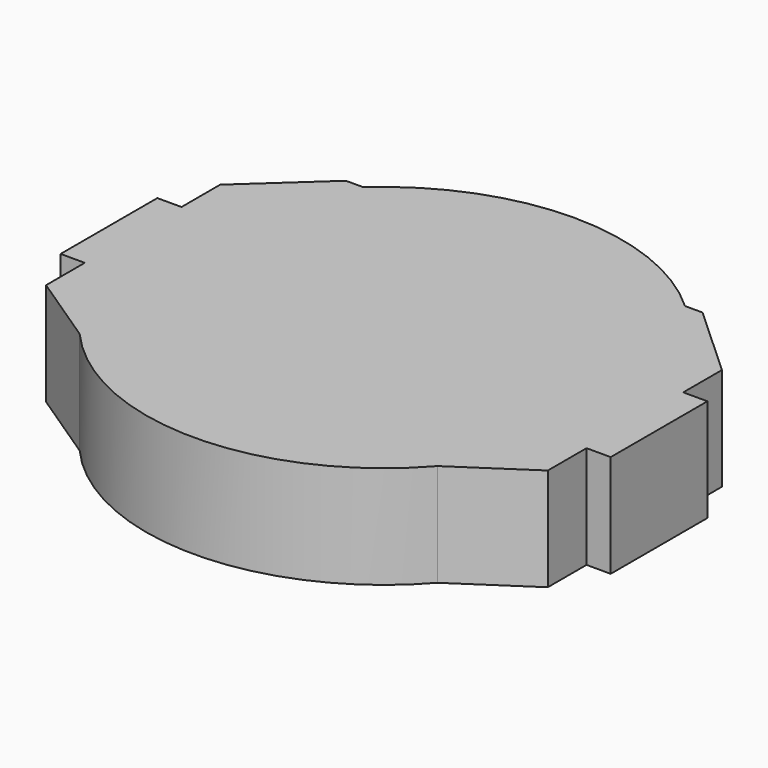
from build123d import *

# Parameters (mm, degrees)
F1_DEPTH = 4.318


with BuildPart() as f1:
    # F0 (on Top) → F1 (new body)
    with BuildSketch(Plane.XY):
        Polygon((-10.541, 2.54), (-11.557, 2.54), (-11.557, -2.54), (-10.541, -2.54), (-10.541, -4.572), (-7.515558, -6.588961), (-5.588, -7.874), (0, -7.874), (5.588, -7.874), (7.515558, -6.588961), (10.541, -4.572), (10.541, -2.54), (11.557, -2.54), (11.557, 2.54), (10.541, 2.54), (10.541, 4.572), (7.493, 7.366), (6.755743, 7.366), (0, 7.366), (-6.755743, 7.366), (-7.493, 7.366), (-10.541, 4.572), align=None)
        with BuildLine():
            ThreePointArc((6.755743, 7.366), (0, 9.9949), (-6.755743, 7.366))
            Line((-6.755743, 7.366), (0, 7.366))
            Line((0, 7.366), (6.755743, 7.366))
        make_face()
        with BuildLine():
            Line((-5.588, -7.874), (-7.515558, -6.588961))
            ThreePointArc((-7.515558, -6.588961), (0, -9.9949), (7.515558, -6.588961))
            Line((7.515558, -6.588961), (5.588, -7.874))
            Line((5.588, -7.874), (0, -7.874))
            Line((0, -7.874), (-5.588, -7.874))
        make_face()
    extrude(amount=-F1_DEPTH)


solid = f1.part
